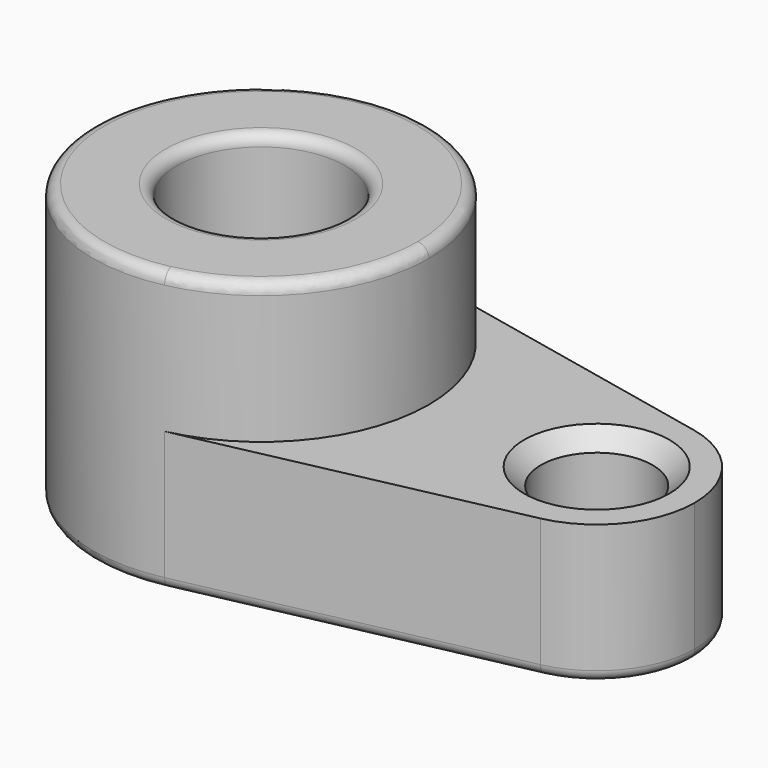
from build123d import *

# Parameters (mm, degrees)
F0_R     = 19.05
F0_R_2   = 12.7
F1_DEPTH = 31.75
F2_DEPTH = 63.5
F3_R     = 2.54
F4_SIZE  = 3.81


with BuildPart() as f1:
    # F0 (on Top) → F1 (new body)
    with BuildSketch(Plane.XY):
        with BuildLine():
            ThreePointArc((7.9375, -37.2640053369), (29.6144284936, -23.970724332), (38.1, 0))
            ThreePointArc((38.1, 0), (29.6144284936, 23.970724332), (7.9375, 37.2640053369))
            ThreePointArc((7.9375, 37.2640053369), (-38.1, 0), (7.9375, -37.2640053369))
        make_face()
        Circle(F0_R, mode=Mode.SUBTRACT)
        with BuildLine():
            ThreePointArc((7.9375, 37.2640053369), (29.6144284936, 23.970724332), (38.1, 0))
            ThreePointArc((38.1, 0), (29.6144284936, -23.970724332), (7.9375, -37.2640053369))
            Line((7.9375, -37.2640053369), (80.8302083333, -21.7373364465))
            ThreePointArc((80.8302083333, -21.7373364465), (53.975, 0), (80.8302083333, 21.7373364465))
            Line((80.8302083333, 21.7373364465), (7.9375, 37.2640053369))
        make_face()
        with BuildLine():
            ThreePointArc((98.425, 0), (93.4750832879, 13.982922527), (80.8302083333, 21.7373364465))
            ThreePointArc((80.8302083333, 21.7373364465), (53.975, 0), (80.8302083333, -21.7373364465))
            ThreePointArc((80.8302083333, -21.7373364465), (93.4750832879, -13.982922527), (98.425, 0))
        make_face()
        with Locations((76.2, 0)):
            Circle(F0_R_2, mode=Mode.SUBTRACT)
    extrude(amount=F1_DEPTH)

    # F0 (on Top) → F2 (join)
    with BuildSketch(Plane.XY):
        with BuildLine():
            ThreePointArc((7.9375, -37.2640053369), (29.6144284936, -23.970724332), (38.1, 0))
            ThreePointArc((38.1, 0), (29.6144284936, 23.970724332), (7.9375, 37.2640053369))
            ThreePointArc((7.9375, 37.2640053369), (-38.1, 0), (7.9375, -37.2640053369))
        make_face()
        Circle(F0_R, mode=Mode.SUBTRACT)
    extrude(amount=F2_DEPTH)

    # F3
    f3_edges = [f1.edges().sort_by_distance(p)[0] for p in [
        (-7.9375, 37.264005, 63.5),
        (-19.05, 0, 63.5),
        (44.383854, -29.500671, 0),
    ]]
    fillet(f3_edges, radius=F3_R)

    # F4
    f4_edges = [f1.edges().sort_by_distance(p)[0] for p in [
        (-21.59, 0, 63.5),
        (63.5, 0, 31.75),
    ]]
    chamfer(f4_edges, length=F4_SIZE)


solid = f1.part
